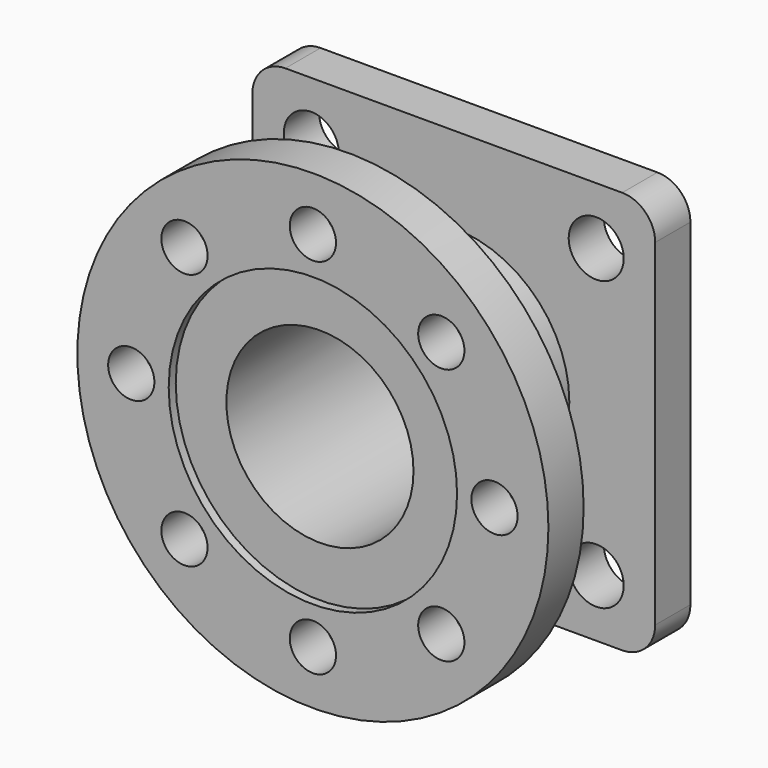
from build123d import *

# Parameters (mm, degrees)
F0_W      = 183
F0_H      = 183
F0_R      = 42.5
F1_DEPTH  = 20
F2_R      = 15
F3_D      = 25
F3_DEPTH  = 31
F3_TIP    = 7.5107577378
F4_R      = 47.5
F4_R_2    = 42.5
F5_DEPTH  = 4
F6_R      = 52.5
F6_R_2    = 42.5
F7_DEPTH  = 60
F8_R      = 107
F8_R_2    = 42.5
F9_DEPTH  = 20
F10_D     = 21
F10_DEPTH = 20
F10_TIP   = 6.3090364998
F11_R     = 65.5
F12_DEPTH = 4


with BuildPart() as f1:
    # F0 (on Front) → F1 (new body)
    with BuildSketch(Plane.XZ):
        Rectangle(F0_W, F0_H)
        Circle(F0_R, mode=Mode.SUBTRACT)
    extrude(amount=F1_DEPTH)

    # F2
    f2_edges = [f1.edges().sort_by_distance(p)[0] for p in [
        (-91.5, -10, 91.5),
        (91.5, -10, 91.5),
        (91.5, -10, -91.5),
        (-91.5, -10, -91.5),
    ]]
    fillet(f2_edges, radius=F2_R)

    # F3
    with Locations(Plane(origin=(0, 0, 0), x_dir=(1, 0, 0), z_dir=(0, 1, 0))):
        with Locations((64.7000986303, 65.4056361274), (64.6997307877, -65.406), (-64.7000986303, -65.4056361274), (-66.1115414671, 63.9941972606)):
            Hole(F3_D / 2, depth=F3_DEPTH)
            with Locations((0, 0, -(F3_DEPTH + F3_TIP / 2))):  # 118° drill point
                Cone(0, F3_D / 2, F3_TIP, mode=Mode.SUBTRACT)

    # F4 (on face) → F5 (join)
    with BuildSketch(Plane.XZ):
        Circle(F4_R)
        Circle(F4_R_2, mode=Mode.SUBTRACT)
    extrude(amount=-F5_DEPTH)

    # F6 (on face) → F7 (join)
    with BuildSketch(Plane.XZ.offset(20)):
        Circle(F6_R)
        Circle(F6_R_2, mode=Mode.SUBTRACT)
    extrude(amount=F7_DEPTH)

    # F8 (on face) → F9 (join)
    with BuildSketch(Plane.XZ.offset(80)):
        Circle(F8_R)
        Circle(F8_R_2, mode=Mode.SUBTRACT)
    extrude(amount=F9_DEPTH)

    # F10 (one way)
    with BuildSketch(Plane(origin=(0, -80, 0), x_dir=(1, 0, 0), z_dir=(0, 1, 0))):
        with Locations((82.5, 0), (58.3363094479, -58.3363094479), (0, -82.5), (-58.3363094479, -58.3363094479), (-82.5, 0), (-58.3363094479, 58.3363094479), (0, 82.5), (58.3363094479, 58.3363094479)):
            Circle(F10_D / 2)
    extrude(amount=-F10_DEPTH, mode=Mode.SUBTRACT)
    with Locations(Plane(origin=(0, -80, 0), x_dir=(1, 0, 0), z_dir=(0, 1, 0))):
        with Locations((82.5, 0), (58.3363094479, -58.3363094479), (0, -82.5), (-58.3363094479, -58.3363094479), (-82.5, 0), (-58.3363094479, 58.3363094479), (0, 82.5), (58.3363094479, 58.3363094479)):
            with Locations((0, 0, -(F10_DEPTH + F10_TIP / 2))):  # 118° drill point
                Cone(0, F10_D / 2, F10_TIP, mode=Mode.SUBTRACT)

    # F11 (on face) → F12 (cut)
    with BuildSketch(Plane.XZ.offset(100)):
        Circle(F11_R)
    extrude(amount=-F12_DEPTH, mode=Mode.SUBTRACT)


solid = f1.part
